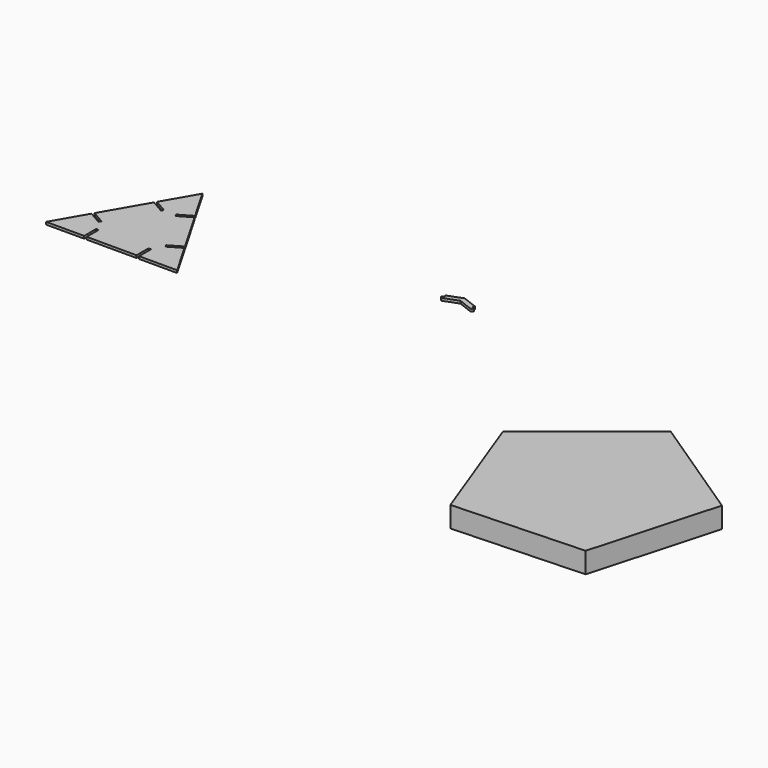
from build123d import *

# Parameters (mm, degrees)
F2_DEPTH = 3
F4_DEPTH = 25
F5_W     = 3
F5_H     = 18
F6_DEPTH = 25
F8_DEPTH = 3


with BuildPart() as f2:
    # F0 (on Top) → F2 (new body)
    with BuildSketch(Plane.XY):
        Polygon((78.825, 136.528905), (0, 0), (157.65, 0), align=None)
    extrude(amount=F2_DEPTH)

    # F5 (on face) → F6 (cut)
    with BuildSketch(Plane.XY.offset(3)):
        with Locations((47.325, 9)):
            Rectangle(F5_W, F5_H)
        with Locations((110.325, 9)):
            Rectangle(F5_W, F5_H)
        Polygon((38.500957, 30.685614), (40.000957, 33.28369), (24.4125, 42.28369), (22.9125, 39.685614), align=None)
        Polygon((70.000957, 85.245215), (71.500957, 87.843291), (55.9125, 96.843291), (54.4125, 94.245215), align=None)
        Polygon((103.2375, 94.245215), (101.7375, 96.843291), (86.149043, 87.843291), (87.649043, 85.245215), align=None)
        Polygon((134.7375, 39.685614), (133.2375, 42.28369), (117.649043, 33.28369), (119.149043, 30.685614), align=None)
    extrude(amount=-F6_DEPTH, mode=Mode.SUBTRACT)


with BuildPart() as f4:
    # F3 (on Top) → F4 (new body)
    with BuildSketch(Plane.XY):
        Polygon((840.272062, -238.931533), (882.762891, -87.115684), (751.507827, 0.209173), (627.896907, -97.636945), (682.756221, -245.43403), align=None)
    extrude(amount=F4_DEPTH)


with BuildPart() as f8:
    # F7 (on Top) → F8 (new body)
    with BuildSketch(Plane.XY):
        with BuildLine():
            Line((422.119806, 117.33051), (404.234227, 124.162137))
            Line((404.234227, 124.162137), (386.348648, 117.33051))
            Line((386.348648, 117.33051), (387.419107, 114.52799))
            Line((387.419107, 114.52799), (384.616587, 113.457531))
            Line((384.616587, 113.457531), (384.973406, 112.523358))
            ThreePointArc((384.973406, 112.523358), (386.025251, 111.411257), (387.555392, 111.36865))
            Line((387.555392, 111.36865), (404.234227, 117.739346))
            Line((404.234227, 117.739346), (420.913062, 111.36865))
            ThreePointArc((420.913062, 111.36865), (422.443202, 111.411257), (423.495047, 112.523358))
            Line((423.495047, 112.523358), (423.851867, 113.457531))
            Line((423.851867, 113.457531), (421.049347, 114.52799))
            Line((421.049347, 114.52799), (422.119806, 117.33051))
        make_face()
    extrude(amount=F8_DEPTH)


solid = Compound([f2.part, f4.part, f8.part])
